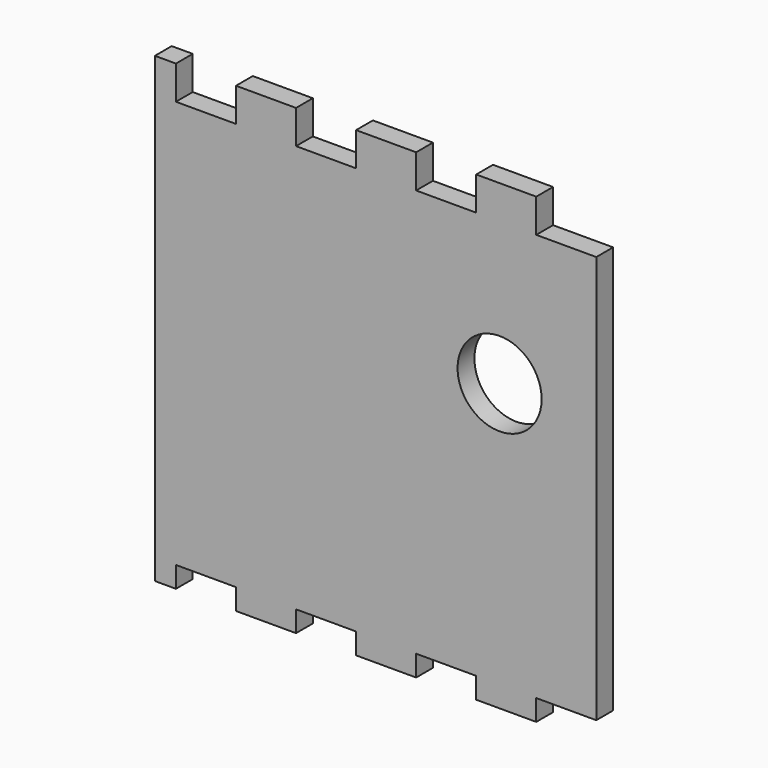
from build123d import *

# Parameters (mm, degrees)
F0_W     = 133.35
F0_H     = 139.7
F1_DEPTH = 6.35
F2_W     = 18.1428571429
F2_H     = 10.16
F2_H_2   = 6.35
F3_DEPTH = 25.4
F4_R     = 12.7
F5_DEPTH = 25.4


with BuildPart() as f1:
    # F0 (on Front) → F1 (new body)
    with BuildSketch(Plane.XZ):
        Rectangle(F0_W, F0_H)
    extrude(amount=F1_DEPTH)

    # F2 (on face) → F3 (cut)
    with BuildSketch(Plane.XZ.offset(6.35)):
        with Locations((57.6035714286, 64.77)):
            Rectangle(F2_W, F2_H)
        with Locations((-51.2535714286, 64.77)):
            Rectangle(F2_W, F2_H)
        with Locations((-14.9678571429, 64.77)):
            Rectangle(F2_W, F2_H)
        with Locations((21.3178571429, 64.77)):
            Rectangle(F2_W, F2_H)
        with Locations((-51.2535714286, -66.675)):
            Rectangle(F2_W, F2_H_2)
        with Locations((-14.9678571429, -66.675)):
            Rectangle(F2_W, F2_H_2)
        with Locations((21.3178571429, -66.675)):
            Rectangle(F2_W, F2_H_2)
        with Locations((57.6035714286, -66.675)):
            Rectangle(F2_W, F2_H_2)
    extrude(amount=-F3_DEPTH, mode=Mode.SUBTRACT)

    # F4 (on face) → F5 (cut)
    with BuildSketch(Plane.XZ.offset(6.35)):
        with Locations((37.465, 16.51)):
            Circle(F4_R)
    extrude(amount=-F5_DEPTH, mode=Mode.SUBTRACT)


solid = f1.part
